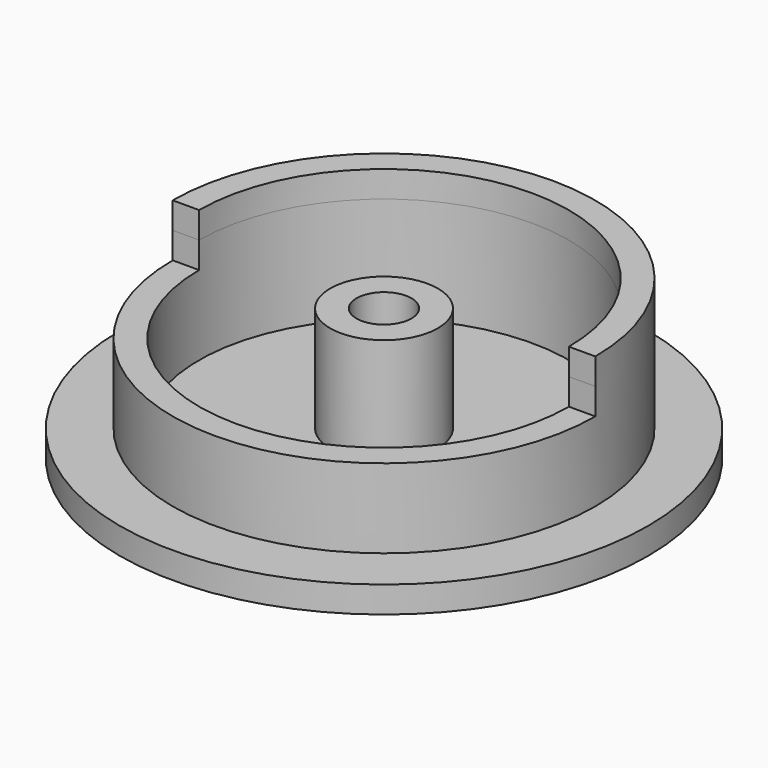
from build123d import *

# Parameters (mm, degrees)
F0_R     = 63.5
F0_R_2   = 50.8
F0_R_3   = 44.45
F0_R_4   = 12.954
F0_R_5   = 6.604
F1_DEPTH = 6.35
F2_DEPTH = 25.4
F4_DEPTH = 6.35
F5_DEPTH = 6.35


with BuildPart() as f1:
    # F0 (on Top) → F1 (new body)
    with BuildSketch(Plane.XY):
        Circle(F0_R)
        Circle(F0_R_2, mode=Mode.SUBTRACT)
        Circle(F0_R_2)
        Circle(F0_R_3, mode=Mode.SUBTRACT)
        Circle(F0_R_3)
        Circle(F0_R_4, mode=Mode.SUBTRACT)
        Circle(F0_R_4)
        Circle(F0_R_5, mode=Mode.SUBTRACT)
    extrude(amount=-F1_DEPTH)

    # F0 (on Top) → F2 (join)
    with BuildSketch(Plane.XY):
        Circle(F0_R_2)
        Circle(F0_R_3, mode=Mode.SUBTRACT)
        Circle(F0_R_4)
        Circle(F0_R_5, mode=Mode.SUBTRACT)
    extrude(amount=F2_DEPTH)

    # F3 (on face) → F4 (join)
    with BuildSketch(Plane.XY.offset(25.4)):
        with BuildLine():
            ThreePointArc((50.8, 0), (0, 50.8), (-50.8, 0))
            Line((-50.8, 0), (-44.45, 0))
            ThreePointArc((-44.45, 0), (0, 44.45), (44.45, 0))
            Line((44.45, 0), (50.8, 0))
        make_face()
    extrude(amount=F4_DEPTH)

    # F2_face (on face) → F5 (cut)
    with BuildSketch(Plane.XY.offset(25.4)):
        with BuildLine():
            ThreePointArc((-50.8, 0), (0, -50.8), (50.8, 0))
            Line((50.8, 0), (44.45, 0))
            ThreePointArc((44.45, 0), (0, -44.45), (-44.45, 0))
            Line((-44.45, 0), (-50.8, 0))
        make_face()
    extrude(amount=-F5_DEPTH, mode=Mode.SUBTRACT)


solid = f1.part
